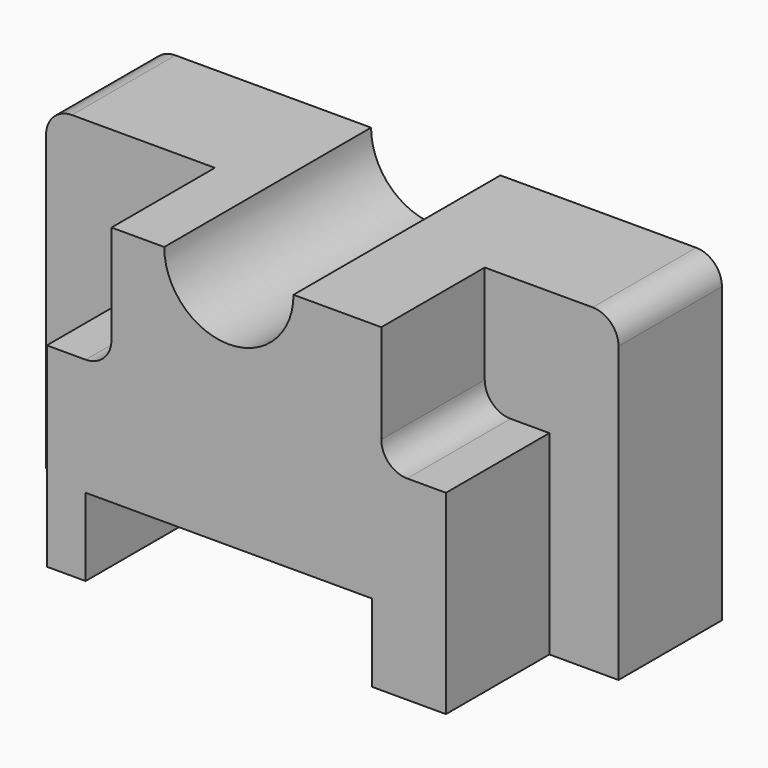
from build123d import *

# Parameters (mm, degrees)
F0_W      = 112.4612912536
F0_H      = 62.7993419766
F1_DEPTH  = 25.4
F2_R      = 5.08
F3_W      = 78.4117951989
F3_H      = 62.7993419766
F4_DEPTH  = 25.4
F5_W      = 12.7
F5_H      = 50.8
F7_W      = 56.2817417085
F7_H      = 15.2776930481
F8_DEPTH  = 25.4
F9_W      = 12.7
F9_H      = 24.5103910565
F10_DEPTH = 25.4
F11_R     = 5.08
F12_R     = 5.08


with BuildPart() as f1:
    # F0 (on Front) → F1 (new body)
    with BuildSketch(Plane.XZ):
        Rectangle(F0_W, F0_H)
    extrude(amount=F1_DEPTH)

    # F2
    f2_edges = [f1.edges().sort_by_distance(p)[0] for p in [
        (-56.230646, -12.7, 31.399671),
        (56.230646, -12.7, 31.399671),
    ]]
    fillet(f2_edges, radius=F2_R)

    # F3 (on face) → F4 (join)
    with BuildSketch(Plane.XZ.offset(25.4)):
        with Locations((3.4460537136, 0)):
            Rectangle(F3_W, F3_H)
    extrude(amount=F4_DEPTH)

    # F5 (on face) → F6 (revolve, cut)
    with BuildSketch(Plane.XY.offset(31.3996709883)):
        with Locations((-6.35, -25.4)):
            Rectangle(F5_W, F5_H)
    revolve(axis=Axis((0, -25.4, 31.3996709883), (0, 1, 0)), mode=Mode.SUBTRACT)

    # F7 (on face) → F8 (cut)
    with BuildSketch(Plane.XZ.offset(50.8)):
        with Locations((0, -23.7608244643)):
            Rectangle(F7_W, F7_H)
    extrude(amount=-F8_DEPTH, mode=Mode.SUBTRACT)

    # F9 (on face) → F10 (cut)
    with BuildSketch(Plane.XZ.offset(50.8)):
        with Locations((-29.4098438859, 19.1444754601)):
            Rectangle(F9_W, F9_H)
        with Locations((36.301951313, 19.1444754601)):
            Rectangle(F9_W, F9_H)
    extrude(amount=-F10_DEPTH, mode=Mode.SUBTRACT)

    # F11
    f11_edges = [f1.edges().sort_by_distance(p)[0] for p in [
        (-23.059844, -38.1, 6.88928),
    ]]
    fillet(f11_edges, radius=F11_R)

    # F12
    f12_edges = [f1.edges().sort_by_distance(p)[0] for p in [
        (29.951951, -38.1, 6.88928),
    ]]
    fillet(f12_edges, radius=F12_R)


solid = f1.part
